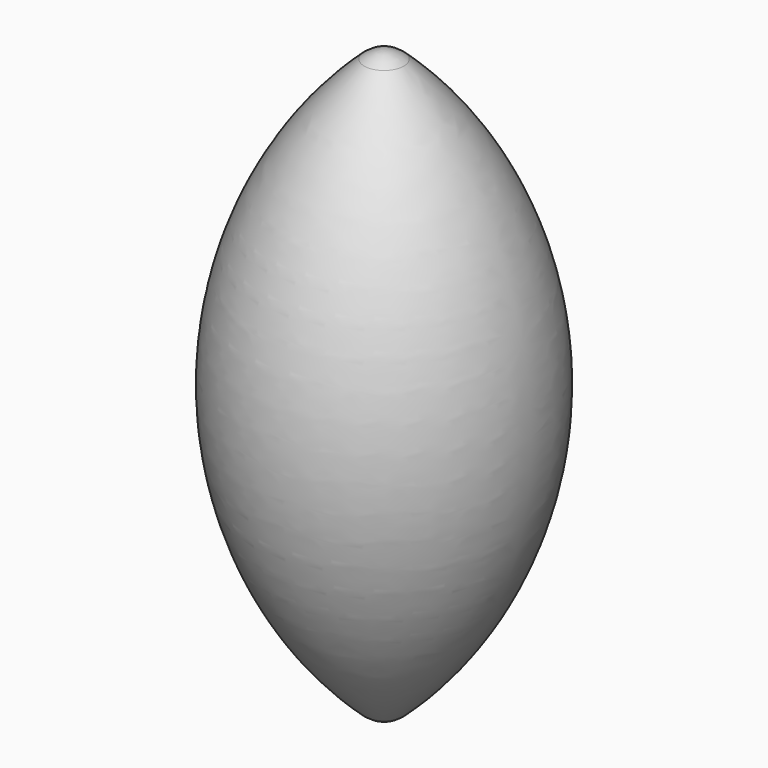
from build123d import *


with BuildPart() as f1:
    # F0 (on Front) → F1 (revolve)
    with BuildSketch(Plane.XZ):
        with BuildLine():
            ThreePointArc((2.127577, 30.931701), (1.139759, 31.538372), (0, 31.75))
            Line((0, 31.75), (0, -31.75))
            ThreePointArc((0, -31.75), (1.139759, -31.538372), (2.127577, -30.931701))
            ThreePointArc((2.127577, -30.931701), (15.875, 0), (2.127577, 30.931701))
        make_face()
    revolve(axis=Axis((0, 0, 0), (0, 0, -1)))


solid = f1.part
